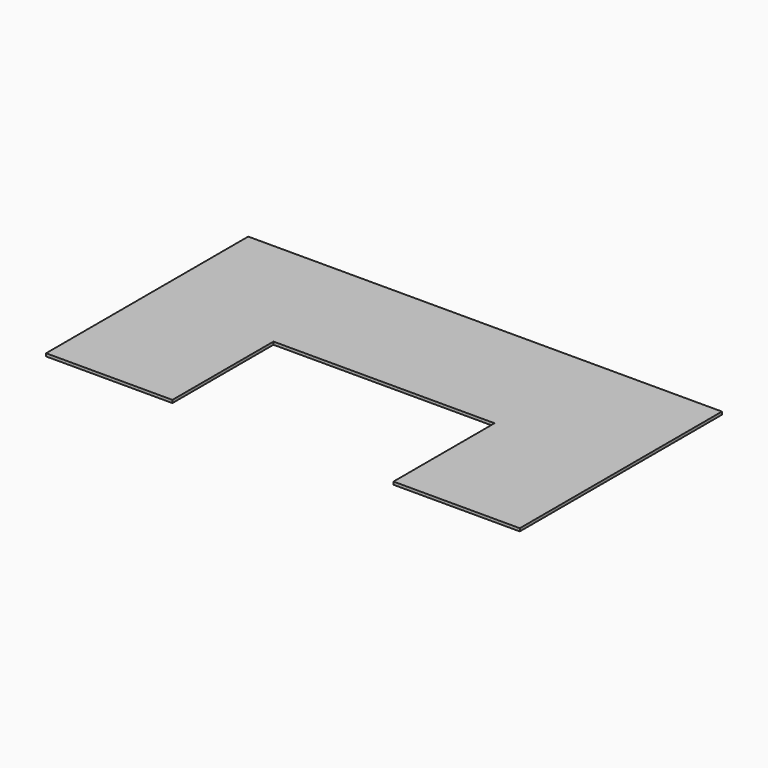
from build123d import *

# Parameters (mm, degrees)
F1_DEPTH = 4.5


with BuildPart() as f1:
    # F0 (on Top) → F1 (new body, symmetric)
    with BuildSketch(Plane.XY):
        Polygon((750, 400), (-750, 400), (-750, -400), (-350, -400), (-350, 0), (350, 0), (350, -400), (750, -400), align=None)
    extrude(amount=F1_DEPTH, both=True)


solid = f1.part
